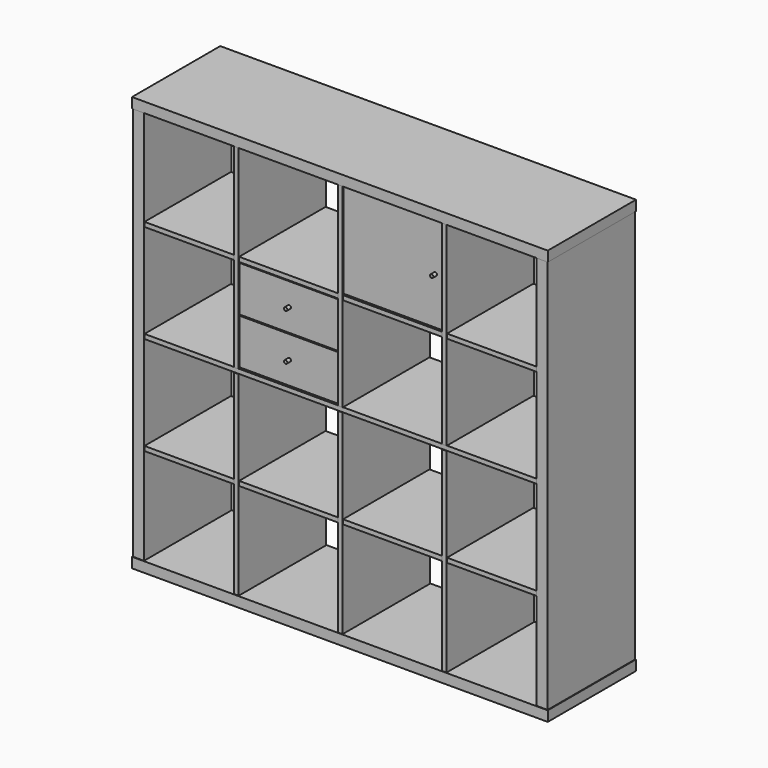
from build123d import *

# Parameters (mm, degrees)
F0_W      = 697
F0_H      = 195
F0_W_2    = 36
F0_W_3    = 2
F1_DEPTH  = 36
F2_W      = 39
F2_H      = 193
F3_DEPTH  = 697.5
F4_W      = 191
F4_H      = 8
F4_H_2    = 16
F5_DEPTH  = 694
F6_W      = 16
F6_H      = 193
F6_W_2    = 8
F7_DEPTH  = 689.5
F11_W     = 16
F11_H     = 332.75
F12_DEPTH = 351.5
F13_R     = 6
F14_DEPTH = 16
F15_W     = 16
F15_H     = 160.375
F16_DEPTH = 351.5
F17_R     = 6
F18_DEPTH = 16


with BuildPart() as f1:
    # F0 (on Top) → F1 (new body)
    with BuildSketch(Plane.XY):
        with Locations((19, 0)):
            Rectangle(F0_W, F0_H)
        with Locations((-347.5, 0)):
            Rectangle(F0_W_2, F0_H)
        with Locations((-366.5, 0)):
            Rectangle(F0_W_3, F0_H)
        with Locations((19, 0)):
            Rectangle(F0_W, F0_H)
        with Locations((-347.5, 0)):
            Rectangle(F0_W_2, F0_H)
        with Locations((-366.5, 0)):
            Rectangle(F0_W_3, F0_H)
    extrude(amount=F1_DEPTH)

    # F2 (on face) → F3 (join)
    with BuildSketch(Plane.XY.offset(36)):
        with Locations((-346, 1)):
            Rectangle(F2_W, F2_H)
    extrude(amount=F3_DEPTH)

    # F4 (on face) → F5 (join, through all)
    with BuildSketch(Plane.YZ.offset(-326.5)):
        with Locations((2, 729.5)):
            Rectangle(F4_W, F4_H)
        with Locations((2, 384.75)):
            Rectangle(F4_W, F4_H_2)
    extrude(amount=F5_DEPTH)

    # F6 (on face) → F7 (join, through all)
    with BuildSketch(Plane.XY.offset(36)):
        with Locations((0, 1)):
            Rectangle(F6_W, F6_H)
        with Locations((363.5, 1)):
            Rectangle(F6_W_2, F6_H)
    extrude(amount=F7_DEPTH)

    # F8: F1 across face


with BuildPart() as f1_1:
    add(f1.part)
    add(f1.part.mirror(Plane(origin=(0.8067832183, 1.9462668028, 733.5), x_dir=(1, 0, 0), z_dir=(0, 0, 1))))

    # F9: F1 across face


with BuildPart() as f1_2:
    add(f1_1.part)
    add(f1_1.part.mirror(Plane(origin=(367.5, 0.9612205774, 733.5), x_dir=(0, 1, 0), z_dir=(1, 0, 0))))

    # F10: F1 across face


with BuildPart() as f1_3:
    add(f1_2.part)
    add(f1_2.part.mirror(Plane(origin=(367.5, 97.5, 733.5), x_dir=(-1, 0, 0), z_dir=(0, 1, 0))))

    # F11 (on face) → F12 (join, through all)
    with BuildSketch(Plane.YZ.offset(375.5)):
        with Locations((-83.5, 1260.625)):
            Rectangle(F11_W, F11_H)
    extrude(amount=F12_DEPTH)

    # F13 (on face) → F14 (join)
    with BuildSketch(Plane.XZ.offset(91.5)):
        with Locations((700, 1260.625)):
            Circle(F13_R)
    extrude(amount=F14_DEPTH)

    # F15 (on face) → F16 (join, through all)
    with BuildSketch(Plane.YZ.offset(8)):
        with Locations((-83.5, 990.0625)):
            Rectangle(F15_W, F15_H)
        with Locations((-83.5, 825.6875)):
            Rectangle(F15_W, F15_H)
    extrude(amount=F16_DEPTH)

    # F17 (on face) → F18 (join)
    with BuildSketch(Plane.XZ.offset(91.5)):
        with Locations((183.75, 990.25)):
            Circle(F17_R)
        with Locations((183.75, 825.875)):
            Circle(F17_R)
    extrude(amount=F18_DEPTH)


solid = f1_3.part
